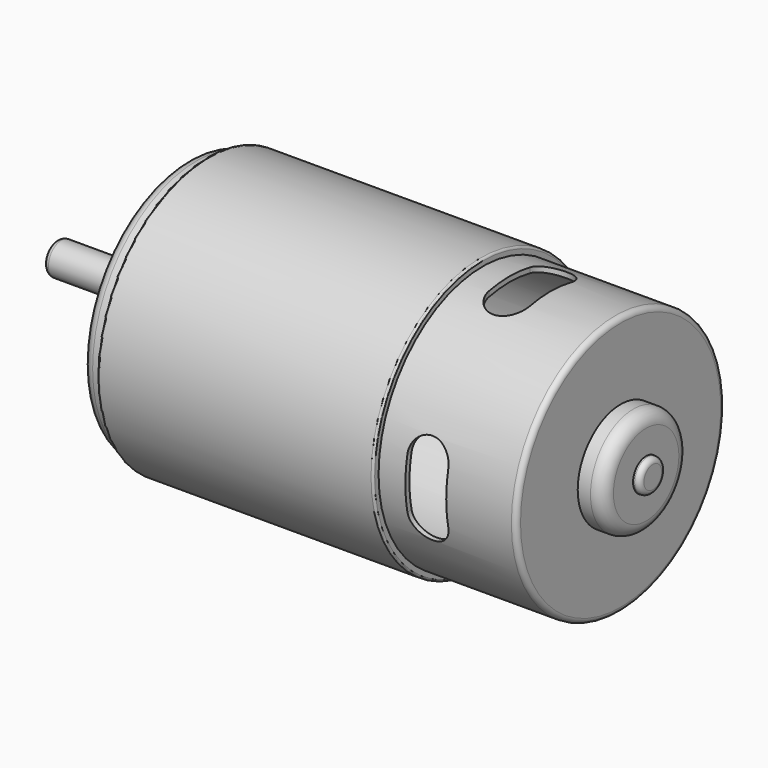
from build123d import *

# Parameters (mm, degrees)
POCKET_DEPTH       = 270.880752
POCKET_DEPTH_BACK  = 270.880752
POLARPATTERN_COUNT = 2
POLARPATTERN_ANGLE = 90


with BuildPart() as body:
    # Sketch003 → Revolution (revolve)
    with BuildSketch(Plane.XY):
        with BuildLine():
            Line((-47.75, -3.2), (-47.75, -8))
            ThreePointArc((-47.75, -8), (-47.017767, -9.767767), (-45.25, -10.5))
            Line((-45.25, -10.5), (-42.25, -10.5))
            Line((-42.25, -10.5), (-42.25, -23.5))
            ThreePointArc((-42.25, -23.5), (-41.664214, -24.914214), (-40.25, -25.5))
            Line((-40.25, -25.5), (-38.25, -25.5))
            Line((-38.25, -25.5), (-38.25, -26.45))
            ThreePointArc((-38.25, -26.45), (-38.132843, -26.732843), (-37.85, -26.85))
            Line((-37.85, -26.85), (15.35, -26.85))
            ThreePointArc((15.35, -26.85), (15.632843, -26.732843), (15.75, -26.45))
            Line((15.75, -26.45), (15.75, -25.5))
            Line((15.75, -25.5), (41.75, -25.5))
            ThreePointArc((41.75, -25.5), (42.457107, -25.207107), (42.75, -24.5))
            Line((42.75, -24.5), (42.75, -10.5))
            Line((42.75, -10.5), (45.25, -10.5))
            ThreePointArc((45.25, -10.5), (47.017767, -9.767767), (47.75, -8))
            Line((47.75, -8), (47.75, -3.2))
            Line((47.75, -3.2), (41.75, -3.2))
            Line((41.75, -3.2), (41.75, -24.5))
            Line((41.75, -24.5), (-41.25, -24.5))
            Line((-41.25, -24.5), (-41.25, -3.2))
            Line((-41.25, -3.2), (-47.75, -3.2))
        make_face()
    revolve(axis=Axis((0, 0, 0), (1, 0, 0)))

    # Sketch → Pocket (cut, two sides)
    with BuildSketch(Plane.XZ) as pocket_sk:
        with BuildLine():
            ThreePointArc((29, 5), (25, 9), (21, 5))
            Line((21, 5), (21, -5))
            ThreePointArc((21, -5), (25, -9), (29, -5))
            Line((29, 5), (29, -5))
        make_face()
    pocket = extrude(amount=-POCKET_DEPTH, mode=Mode.SUBTRACT) + extrude(pocket_sk.sketch, amount=POCKET_DEPTH_BACK, mode=Mode.SUBTRACT)

    # PolarPattern: Pocket ×2 about axis
    polarpattern_axis = Axis((0, 0, 0), (1, 0, 0))
    for i in range(1, POLARPATTERN_COUNT):
        add(pocket.rotate(polarpattern_axis, i * POLARPATTERN_ANGLE / (POLARPATTERN_COUNT - 1)), mode=Mode.SUBTRACT)


with BuildPart() as axis:
    # Sketch004 → Revolution001 (revolve)
    with BuildSketch(Plane.XY):
        with BuildLine():
            Line((-67.75, 0), (49.05, 0))
            Line((49.05, 2.175), (49.05, 0))
            ThreePointArc((49.05, 2.175), (48.757107, 2.882107), (48.05, 3.175))
            Line((48.05, 3.175), (-66.75, 3.175))
            ThreePointArc((-66.75, 3.175), (-67.457107, 2.882107), (-67.75, 2.175))
            Line((-67.75, 2.175), (-67.75, 0))
        make_face()
    revolve(axis=Axis((0, 0, 0), (1, 0, 0)))


solid = Compound([body.part, axis.part])
